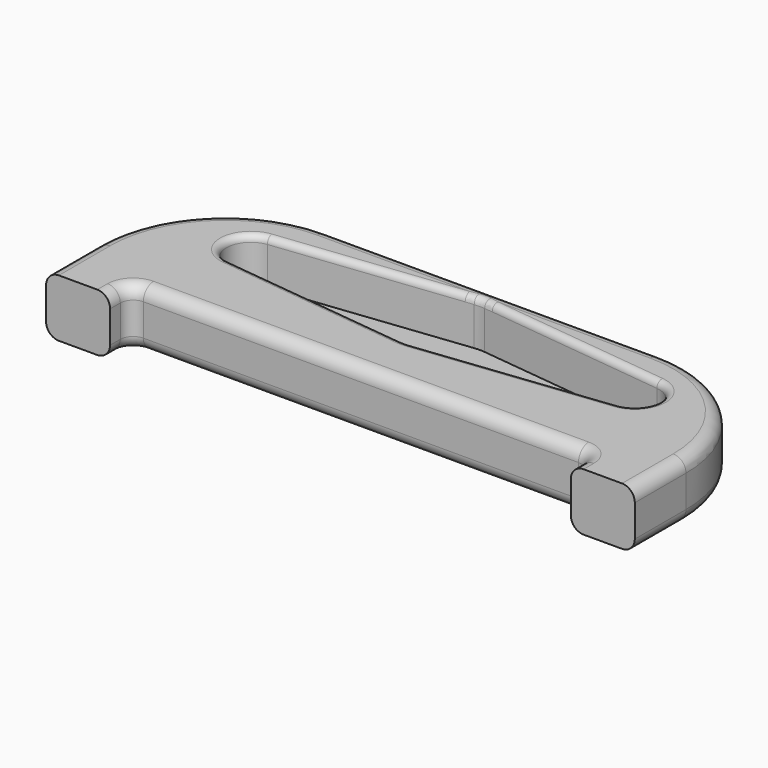
from build123d import *

# Parameters (mm, degrees)
PAD_DEPTH       = 4.5
SKETCH002_R     = 1.25
POCKET_DEPTH    = 5
POCKET001_DEPTH = 3.5
FILLET_R        = 10
FILLET001_R     = 1
FILLET002_R     = 0.5


with BuildPart() as part:
    # Sketch → Pad (new body)
    with BuildSketch(Plane.XY):
        Polygon((23, 15), (23, 0), (18, 0), (18, 2), (-18, 2), (-18, 0), (-23, 0), (-23, 15), align=None)
    extrude(amount=PAD_DEPTH)

    # Sketch002 (on Face10 of Pad) → Pocket (cut)
    with BuildSketch(Plane.XY.offset(4.5)):
        with Locations((0, 10)):
            Circle(SKETCH002_R)
    extrude(amount=-POCKET_DEPTH, mode=Mode.SUBTRACT)

    # Sketch003 (on Face5 of Pocket) → Pocket001 (cut)
    with BuildSketch(Plane.XY.offset(4.5)):
        with BuildLine():
            Line((-15.215333, 11.887758), (-0.408, 13.576805))
            ThreePointArc((0.408, 13.576805), (0, 13.6), (-0.408, 13.576805))
            Line((15.215333, 11.887758), (0.408, 13.576805))
            ThreePointArc((15.215333, 8.112242), (16.9, 10), (15.215333, 11.887758))
            Line((0.408, 6.423195), (15.215333, 8.112242))
            ThreePointArc((-0.408, 6.423195), (0, 6.4), (0.408, 6.423195))
            Line((-15.215333, 8.112242), (-0.408, 6.423195))
            ThreePointArc((-15.215333, 11.887758), (-16.9, 10), (-15.215333, 8.112242))
        make_face()
    extrude(amount=-POCKET001_DEPTH, mode=Mode.SUBTRACT)

    # Fillet
    fillet_edges = [part.edges().sort_by_distance(p)[0] for p in [
        (-23, 15, 2.25),
        (23, 15, 2.25),
    ]]
    fillet(fillet_edges, radius=FILLET_R)

    # Fillet001
    fillet001_edges = [part.edges().sort_by_distance(p)[0] for p in [
        (-18, 1, 0),
        (-18, 1, 4.5),
        (0, 2, 4.5),
        (0, 2, 0),
        (18, 1, 4.5),
        (18, 1, 0),
        (-18, 2, 2.25),
        (18, 2, 2.25),
        (23, 2.5, 4.5),
        (20.071068, 12.071068, 4.5),
        (-20.071068, 12.071068, 4.5),
        (0, 15, 4.5),
        (-23, 2.5, 4.5),
        (23, 2.5, 0),
        (20.071068, 12.071068, 0),
        (0, 15, 0),
        (-20.071068, 12.071068, 0),
        (-23, 2.5, 0),
    ]]
    fillet(fillet001_edges, radius=FILLET001_R)

    # Fillet002
    fillet002_edges = [part.edges().sort_by_distance(p)[0] for p in [
        (-16.9, 10, 4.5),
        (-7.811667, 7.267718, 4.5),
        (0, 6.4, 4.5),
        (7.811667, 7.267718, 4.5),
        (16.9, 10, 4.5),
        (7.811667, 12.732282, 4.5),
        (0, 13.6, 4.5),
        (-7.811667, 12.732282, 4.5),
    ]]
    fillet(fillet002_edges, radius=FILLET002_R)


solid = part.part
